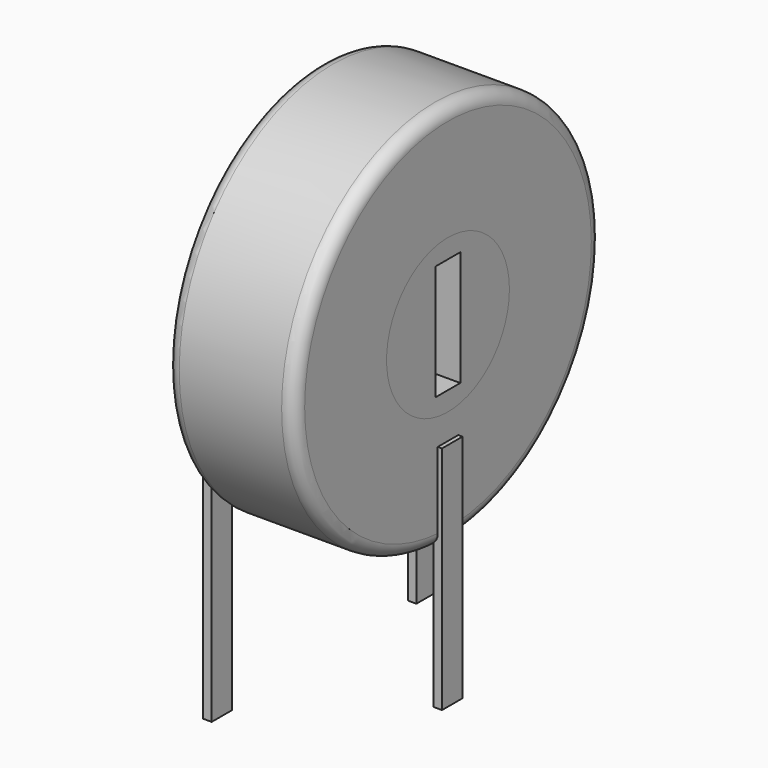
from build123d import *

# Parameters (mm, degrees)
SKETCH001_R       = 3
SKETCH001_W       = 1.2
SKETCH001_H       = 4.5
PAD001_DEPTH      = 5
SKETCH_R          = 7.5
SKETCH_R_2        = 3
PAD_DEPTH         = 5
FILLET_R          = 0.5
SKETCH003_W       = 0.333334
SKETCH003_H       = 1
PAD002_DEPTH      = 6
PAD002_DEPTH_BACK = 3


with BuildPart() as pad001:
    # Sketch001 → Pad001 (new body)
    with BuildSketch(Plane.YZ):
        with Locations((-5, 10)):
            Circle(SKETCH001_R)
        with Locations((-5, 10)):
            Rectangle(SKETCH001_W, SKETCH001_H, mode=Mode.SUBTRACT)
    extrude(amount=PAD001_DEPTH)


with BuildPart() as fillet_body:
    # Sketch → Pad (new body)
    with BuildSketch(Plane.YZ):
        with Locations((-5, 10)):
            Circle(SKETCH_R)
        with Locations((-5, 10)):
            Circle(SKETCH_R_2, mode=Mode.SUBTRACT)
    extrude(amount=PAD_DEPTH)

    # Fillet
    fillet_edges = [fillet_body.edges().sort_by_distance(p)[0] for p in [
        (0, -12.5, 10),
        (5, -12.5, 10),
    ]]
    fillet(fillet_edges, radius=FILLET_R)


with BuildPart() as pad002:
    # Sketch003 → Pad002 (new body, two sides)
    with BuildSketch(Plane.XY) as pad002_sk:
        Rectangle(SKETCH003_W, SKETCH003_H)
        with Locations((5, -5)):
            Rectangle(SKETCH003_W, SKETCH003_H)
        with Locations((0, -10)):
            Rectangle(SKETCH003_W, SKETCH003_H)
    extrude(amount=PAD002_DEPTH)
    extrude(pad002_sk.sketch, amount=-PAD002_DEPTH_BACK)


solid = Compound([pad001.part, fillet_body.part, pad002.part])
